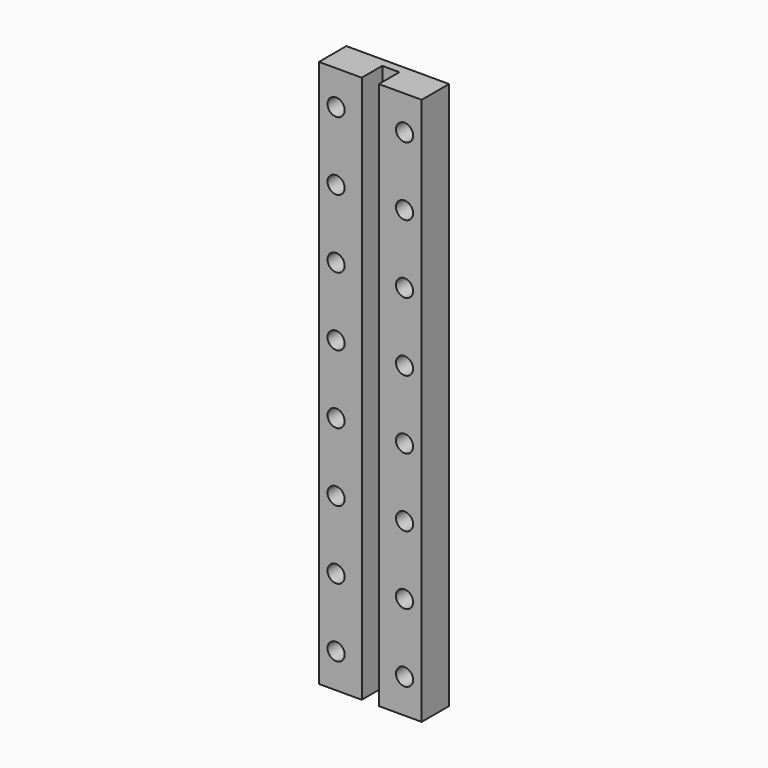
from build123d import *

# Parameters (mm, degrees)
F1_DEPTH = 128
F2_R     = 2
F3_DEPTH = 25


with BuildPart() as f1:
    # F0 (on Top) → F1 (new body)
    with BuildSketch(Plane.XY):
        Polygon((12, -4), (12, 4), (-12, 4), (-12, -4), (-2, -4), (-2, 2), (2, 2), (2, -4), align=None)
    extrude(amount=F1_DEPTH)

    # F2 (on face) → F3 (cut)
    with BuildSketch(Plane(origin=(0, 4, 0), x_dir=(-1, 0, 0), z_dir=(0, 1, 0))):
        with Locations((-8, 8)):
            Circle(F2_R)
        with Locations((-8, 24)):
            Circle(F2_R)
        with Locations((-8, 40)):
            Circle(F2_R)
        with Locations((-8, 56)):
            Circle(F2_R)
        with Locations((-8, 72)):
            Circle(F2_R)
        with Locations((8, 8)):
            Circle(F2_R)
        with Locations((8, 24)):
            Circle(F2_R)
        with Locations((8, 40)):
            Circle(F2_R)
        with Locations((8, 56)):
            Circle(F2_R)
        with Locations((8, 72)):
            Circle(F2_R)
        with Locations((-8, 88)):
            Circle(F2_R)
        with Locations((-8, 104)):
            Circle(F2_R)
        with Locations((-8, 120)):
            Circle(F2_R)
        with Locations((8, 88)):
            Circle(F2_R)
        with Locations((8, 104)):
            Circle(F2_R)
        with Locations((8, 120)):
            Circle(F2_R)
    extrude(amount=-F3_DEPTH, mode=Mode.SUBTRACT)


solid = f1.part
